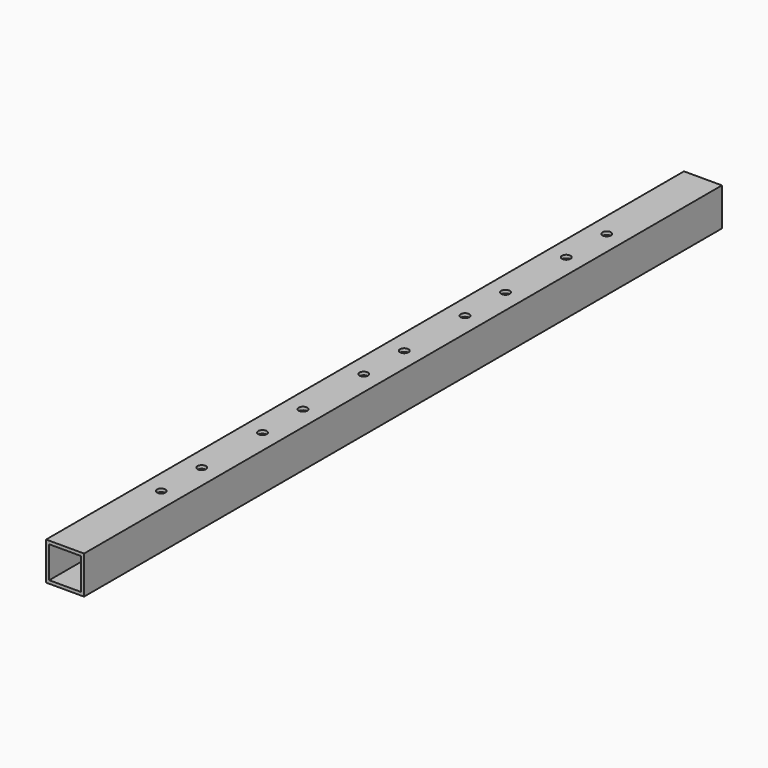
from build123d import *

# Parameters (mm, degrees)
F0_W       = 19.05
F0_H       = 19.05
F0_W_2     = 15.875
F0_H_2     = 15.875
F1_DEPTH   = 200.025
F2_R       = 2.15265
F1_FACE1_W = 19.05
F1_FACE1_H = 400.05
F3_DEPTH   = 25.4


with BuildPart() as f1:
    # F0 (on Front) → F1 (new body, symmetric)
    with BuildSketch(Plane.XZ):
        Rectangle(F0_W, F0_H)
        Rectangle(F0_W_2, F0_H_2, mode=Mode.SUBTRACT)
    extrude(amount=F1_DEPTH, both=True)

    # F2 (on face) + F1_face1 (on face) → F3 (cut)
    with BuildSketch(Plane.XY.offset(9.525)):
        with Locations((0, 12.7)):
            Circle(F2_R)
        with Locations((0, -12.7)):
            Circle(F2_R)
        with Locations((0, 76.2)):
            Circle(F2_R)
        with Locations((0, 50.8)):
            Circle(F2_R)
        with Locations((0, 139.7)):
            Circle(F2_R)
        with Locations((0, 114.3)):
            Circle(F2_R)
        with Locations((0, -50.8)):
            Circle(F2_R)
        with Locations((0, -76.2)):
            Circle(F2_R)
        with Locations((0, -114.3)):
            Circle(F2_R)
        with Locations((0, -139.7)):
            Circle(F2_R)
    with BuildSketch(Plane(origin=(0, 0, -9.525), x_dir=(1, 0, 0), z_dir=(0, 0, -1))):
        Rectangle(F1_FACE1_W, F1_FACE1_H)
    extrude(amount=-F3_DEPTH, dir=(0, 0, 1), mode=Mode.SUBTRACT)


solid = f1.part
